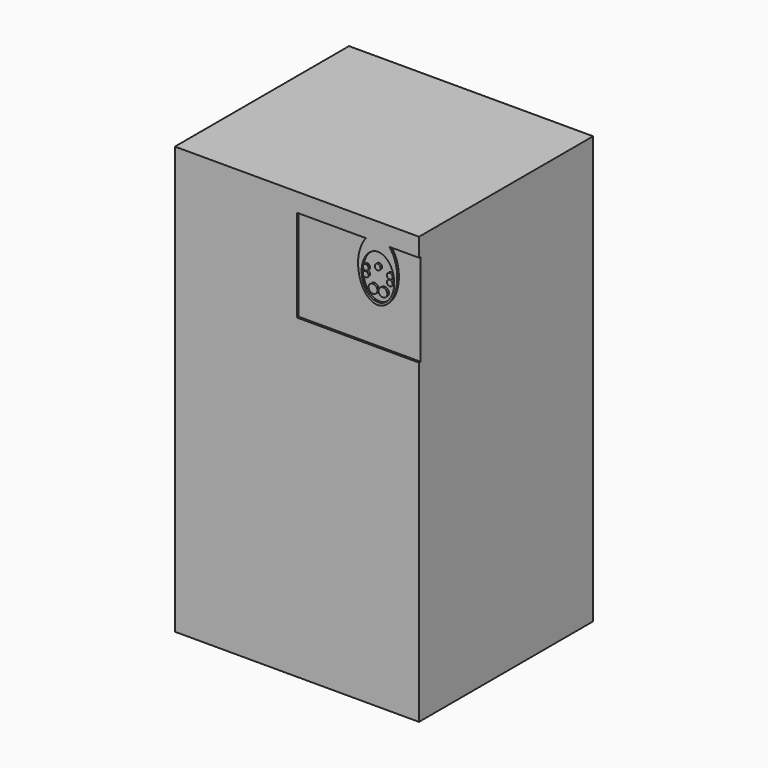
from build123d import *

# Parameters (mm, degrees)
F0_W     = 240
F0_H     = 420
F1_DEPTH = 214
F2_R     = 4.3236508832
F2_R_2   = 2.7917572167
F2_R_3   = 2.8466316253
F3_DEPTH = 2


with BuildPart() as f1:
    # F0 (on Front) → F1 (new body)
    with BuildSketch(Plane.XZ):
        Rectangle(F0_W, F0_H)
    extrude(amount=F1_DEPTH)

    # F2 (on face) → F3 (cut)
    with BuildSketch(Plane.XZ.offset(214)):
        with BuildLine():
            add(Edge.make_bspline(
                [(79.6410050243, 183.8327910713), (51.8654523452, 183.8327910713), (65.7532286848, 151.0819511507), (79.6410050243, 118.3311112301), (93.5287813639, 151.0819511507), (107.4165577034, 183.8327910713), (79.6410050243, 183.8327910713)],
                knots=[0, 0, 0, 2.0943951024, 2.0943951024, 4.1887902048, 4.1887902048, 6.2831853072, 6.2831853072, 6.2831853072], degree=2, weights=[1, 0.5, 1, 0.5, 1, 0.5, 1]))
        make_face()
        with Locations((74.7582092881, 150.2597033978)):
            Circle(F2_R, mode=Mode.SUBTRACT)
        with Locations((84.5238007605, 150.2597033978)):
            Circle(F2_R, mode=Mode.SUBTRACT)
        with Locations((67.5114076585, 160.5240367353)):
            Circle(F2_R_2, mode=Mode.SUBTRACT)
        with Locations((67.5114076585, 166.5119044483)):
            Circle(F2_R_2, mode=Mode.SUBTRACT)
        with Locations((79.3632175773, 170.5509889871)):
            Circle(F2_R_3, mode=Mode.SUBTRACT)
        with Locations((91.2150274962, 160.5240367353)):
            Circle(F2_R_2, mode=Mode.SUBTRACT)
        with Locations((91.2150274962, 166.5119044483)):
            Circle(F2_R_2, mode=Mode.SUBTRACT)
        with BuildLine():
            add(Edge.make_bspline(
                [(67.9816982948, 191.8028444052), (20.4125568798, 137.7288326621), (79.3632175773, 137.7288326621), (138.3138782749, 137.7288326621), (90.7447368599, 191.8028444052)],
                knots=[0.6318580764, 0.6318580764, 0.6318580764, 3.1415926536, 3.1415926536, 5.6513272308, 5.6513272308, 5.6513272308], degree=2, weights=[1, 0.3106996636, 1, 0.3106996636, 1]))
            Line((67.9816982948, 191.8028444052), (0, 191.8028444052))
            Line((0, 191.8028444052), (0, 100.9825244546))
            Line((0, 100.9825244546), (120, 100.9825244546))
            Line((120, 100.9825244546), (120, 191.8028444052))
            Line((120, 191.8028444052), (90.7447368599, 191.8028444052))
        make_face()
    extrude(amount=-F3_DEPTH, mode=Mode.SUBTRACT)


solid = f1.part
